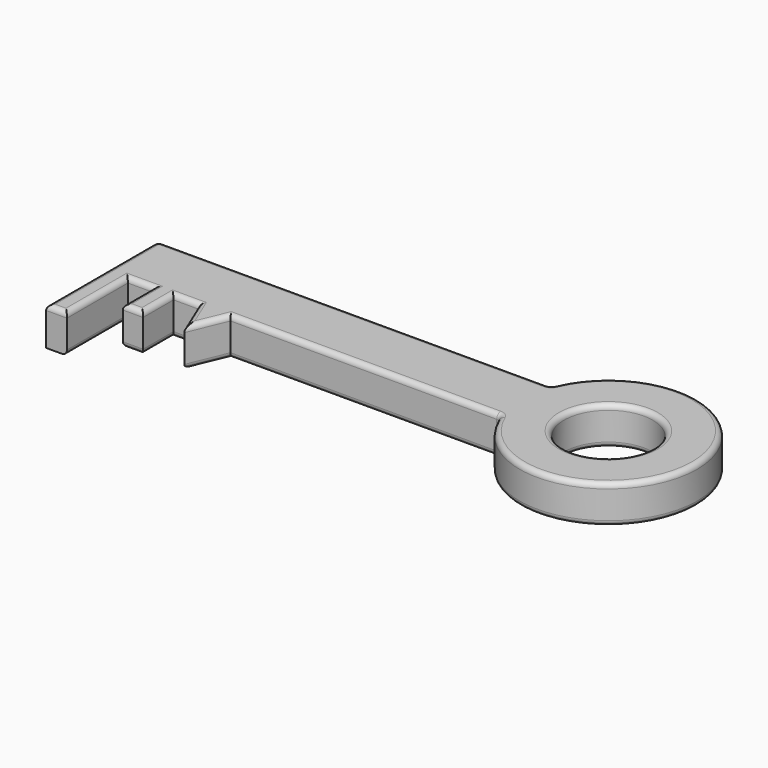
from build123d import *

# Parameters (mm, degrees)
F0_R     = 17.5
F0_W     = 8.2477046886
F0_H     = 30
F0_W_2   = 8
F0_H_2   = 15
F1_DEPTH = 15
F2_R     = 2


with BuildPart() as f1:
    # F0 (on Top) → F1 (new body)
    with BuildSketch(Plane.XY):
        Polygon((25.6203956529, 17.2967884245), (-129.3796043471, 17.2967884245), (-129.3796043471, -7.7032115755), (-121.1318996584, -7.7032115755), (-111.1318996584, -7.7032115755), (-103.1318996584, -7.7032115755), (-93.1318996584, -7.7032115755), (-80.6687141383, -7.7032115755), (25.6203956529, -7.7032115755), align=None)
        with BuildLine():
            ThreePointArc((25.6203956529, -7.7032115755), (93.3121377295, 4.7967884245), (25.6203956529, 17.2967884245))
            Line((25.6203956529, 17.2967884245), (25.6203956529, -7.7032115755))
        make_face()
        with Locations((58.3121377295, 4.7967884245)):
            Circle(F0_R, mode=Mode.SUBTRACT)
        with Locations((-125.2557520027, -22.7032115755)):
            Rectangle(F0_W, F0_H)
        with Locations((-107.1318996584, -15.2032115755)):
            Rectangle(F0_W_2, F0_H_2)
        Polygon((-86.9003068984, -22.7032115755), (-80.6687141383, -7.7032115755), (-93.1318996584, -7.7032115755), align=None)
    extrude(amount=F1_DEPTH)

    # F2
    f2_edges = [f1.edges().sort_by_distance(p)[0] for p in [
        (-51.879604, 17.296788, 15),
        (-27.524159, -7.703212, 15),
        (-83.784511, -15.203212, 15),
        (-103.1319, -15.203212, 15),
        (-98.1319, -7.703212, 15),
        (-90.016103, -15.203212, 15),
        (-111.1319, -15.203212, 15),
        (-107.1319, -22.703212, 15),
        (-116.1319, -7.703212, 15),
        (-121.1319, -22.703212, 15),
        (-125.255752, -37.703212, 15),
        (-129.379604, -10.203212, 15),
        (93.312138, 4.796788, 15),
        (40.812138, 4.796788, 15),
        (25.620396, -7.703212, 7.5),
        (25.620396, 17.296788, 7.5),
        (93.312138, 4.796788, 0),
        (-129.379604, 17.296788, 7.5),
        (-51.879604, 17.296788, 0),
        (-116.1319, -7.703212, 0),
        (-111.1319, -15.203212, 0),
        (-121.1319, -22.703212, 0),
        (-103.1319, -15.203212, 0),
        (-98.1319, -7.703212, 0),
        (-90.016103, -15.203212, 0),
        (-27.524159, -7.703212, 0),
        (-107.1319, -22.703212, 0),
        (-83.784511, -15.203212, 0),
        (40.812138, 4.796788, 0),
    ]]
    fillet(f2_edges, radius=F2_R)


solid = f1.part
